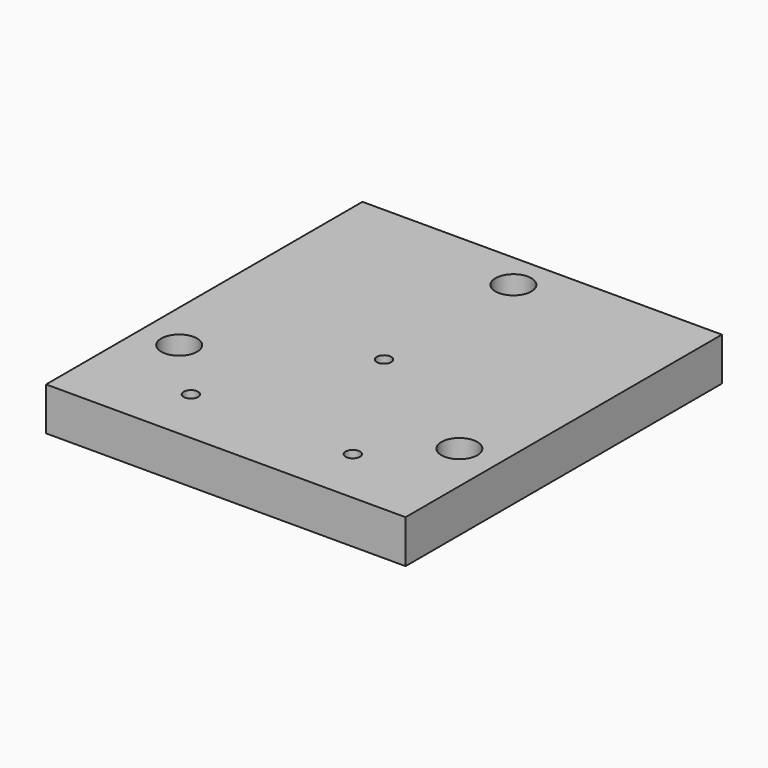
from build123d import *

# Parameters (mm, degrees)
F0_R     = 2
F0_R_2   = 5
F1_DEPTH = 12


with BuildPart() as f1:
    # F0 (on Top) → F1 (new body)
    with BuildSketch(Plane.XY):
        Polygon((2.75, 81), (-50, 81), (-50, -29), (50, -29), (50, 81), align=None)
        with Locations((-22.51666, -13)):
            Circle(F0_R, mode=Mode.SUBTRACT)
        with Locations((-38.971143, 3.5)):
            Circle(F0_R_2, mode=Mode.SUBTRACT)
        with Locations((22.51666, -13)):
            Circle(F0_R, mode=Mode.SUBTRACT)
        with Locations((38.971143, 3.5)):
            Circle(F0_R_2, mode=Mode.SUBTRACT)
        with Locations((0, 26)):
            Circle(F0_R, mode=Mode.SUBTRACT)
        with Locations((0, 71)):
            Circle(F0_R_2, mode=Mode.SUBTRACT)
    extrude(amount=F1_DEPTH)


solid = f1.part
